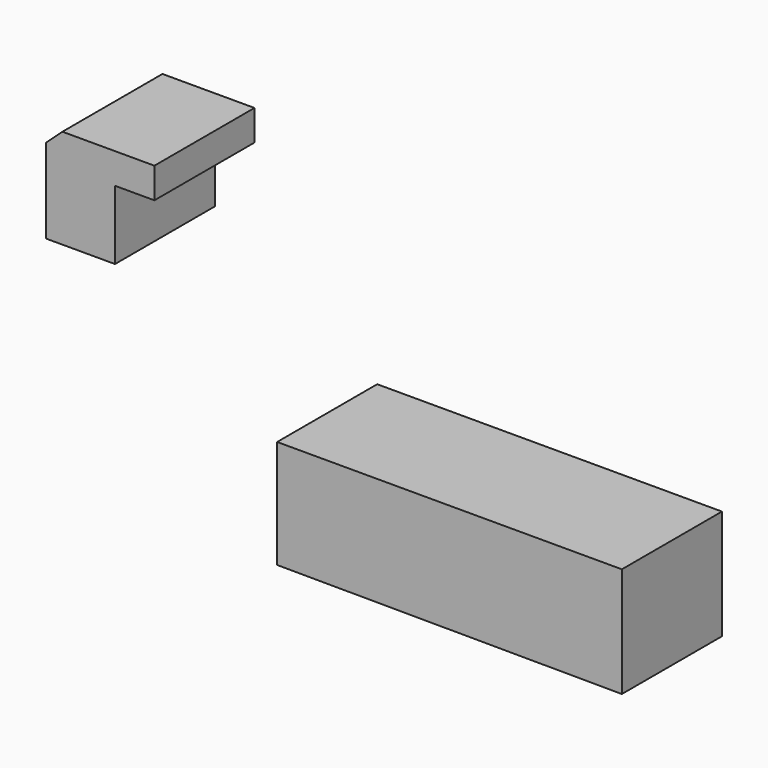
from build123d import *

# Parameters (mm, degrees)
F0_W     = 70.0024
F0_H     = 8.001
F1_DEPTH = 25.4


with BuildPart() as f1:
    # F0 (on Front) → F1 (new body)
    with BuildSketch(Plane.XZ):
        Polygon((-56.409574, 25.943839), (-59.724098, 22.930635), (-59.724098, 5.755361), (-45.728698, 5.755361), (-45.728698, 19.750761), (-37.727698, 19.750761), (-37.727698, 25.943839), align=None)
        with Locations((22.1996, -19.3421)):
            Rectangle(F0_W, F0_H)
        Polygon((57.2008, -23.3426), (-12.8016, -23.3426), (-12.8016, -37.338), (57.2008, -37.642799), align=None)
    extrude(amount=F1_DEPTH)


solid = f1.part
